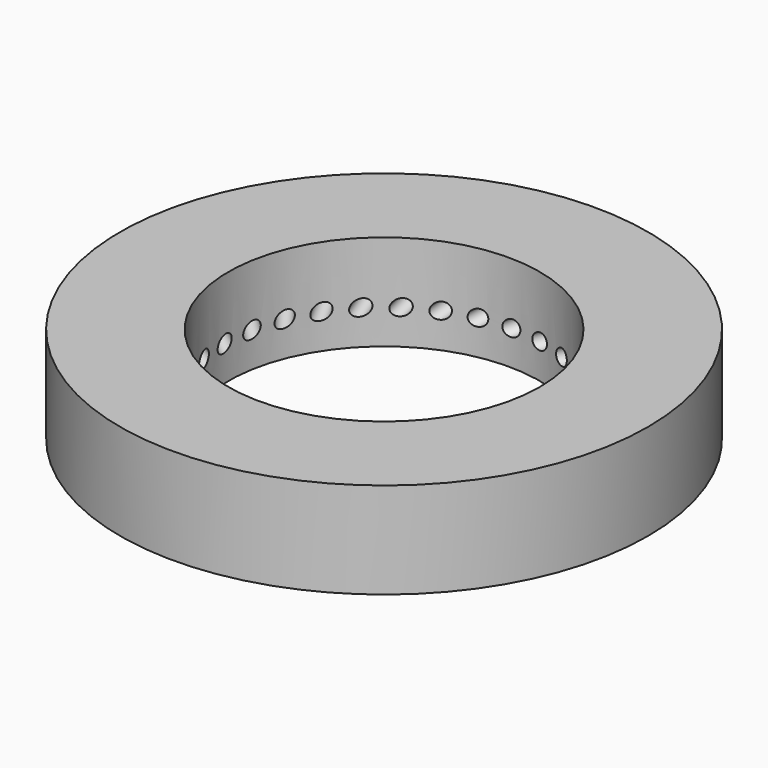
from build123d import *

# Parameters (mm, degrees)
F0_R      = 16.5
F1_DEPTH  = 7.9375
F2_R      = 10.033
F3_DEPTH  = 7.9375
F6_R      = 0.5
F7_DEPTH  = 25.4
F8_ANGLE  = 20
F10_ANGLE = 50
F11_ANGLE = 55
F12_COUNT = 31
F17_R     = 16.5
F17_R_2   = 10.033
F18_DEPTH = 1.7526
F19_R     = 15
F19_R_2   = 14
F20_DEPTH = 4.2545
F21_R     = 17
F21_R_2   = 16.5
F22_DEPTH = 6.1849


with BuildPart() as f1:
    # F0 (on Top) → F1 (new body)
    with BuildSketch(Plane.XY):
        Circle(F0_R)
    extrude(amount=F1_DEPTH)

    # F2 (on Top) → F3 (cut)
    with BuildSketch(Plane.XY):
        Circle(F2_R)
    extrude(amount=F3_DEPTH, mode=Mode.SUBTRACT)


with BuildPart() as f7:
    # F6 (on Right) → F7 (new body)
    with BuildSketch(Plane.YZ):
        with Locations((0, 54.0998391807)):
            Circle(F6_R)
    extrude(amount=F7_DEPTH)


with BuildPart() as f7_1:
    # F8: moved
    add(f7.part.rotate(Axis((0, 0, 71.6633871198), (0, 0, 1)), F8_ANGLE))


with BuildPart() as f7_2:
    # F9: moved
    add(f7_1.part.moved(Location((0, 0, -54.102))))


with BuildPart() as f7_3:
    # F10: moved
    add(f7_2.part.rotate(Axis((14.9283884093, 0, 0), (1, 0, 0)), F10_ANGLE))


with BuildPart() as f7_4:
    # F11: moved
    add(f7_3.part.rotate(Axis((0, -8.9068748057, 35.4871749878), (0, 0, 1)), F11_ANGLE))


with BuildPart() as f12_1:
    # F12: instance of F7
    add(f7_4.part.rotate(Axis((0, 0, 71.6633871198), (0, 0, 1)), 1 * 360 / F12_COUNT))


with BuildPart() as f12_2:
    # F12: instance of F7
    add(f7_4.part.rotate(Axis((0, 0, 71.6633871198), (0, 0, 1)), 2 * 360 / F12_COUNT))


with BuildPart() as f12_3:
    # F12: instance of F7
    add(f7_4.part.rotate(Axis((0, 0, 71.6633871198), (0, 0, 1)), 3 * 360 / F12_COUNT))


with BuildPart() as f12_4:
    # F12: instance of F7
    add(f7_4.part.rotate(Axis((0, 0, 71.6633871198), (0, 0, 1)), 4 * 360 / F12_COUNT))


with BuildPart() as f12_5:
    # F12: instance of F7
    add(f7_4.part.rotate(Axis((0, 0, 71.6633871198), (0, 0, 1)), 5 * 360 / F12_COUNT))


with BuildPart() as f12_6:
    # F12: instance of F7
    add(f7_4.part.rotate(Axis((0, 0, 71.6633871198), (0, 0, 1)), 6 * 360 / F12_COUNT))


with BuildPart() as f12_7:
    # F12: instance of F7
    add(f7_4.part.rotate(Axis((0, 0, 71.6633871198), (0, 0, 1)), 7 * 360 / F12_COUNT))


with BuildPart() as f12_8:
    # F12: instance of F7
    add(f7_4.part.rotate(Axis((0, 0, 71.6633871198), (0, 0, 1)), 8 * 360 / F12_COUNT))


with BuildPart() as f12_9:
    # F12: instance of F7
    add(f7_4.part.rotate(Axis((0, 0, 71.6633871198), (0, 0, 1)), 9 * 360 / F12_COUNT))


with BuildPart() as f12_10:
    # F12: instance of F7
    add(f7_4.part.rotate(Axis((0, 0, 71.6633871198), (0, 0, 1)), 10 * 360 / F12_COUNT))


with BuildPart() as f12_11:
    # F12: instance of F7
    add(f7_4.part.rotate(Axis((0, 0, 71.6633871198), (0, 0, 1)), 11 * 360 / F12_COUNT))


with BuildPart() as f12_12:
    # F12: instance of F7
    add(f7_4.part.rotate(Axis((0, 0, 71.6633871198), (0, 0, 1)), 12 * 360 / F12_COUNT))


with BuildPart() as f12_13:
    # F12: instance of F7
    add(f7_4.part.rotate(Axis((0, 0, 71.6633871198), (0, 0, 1)), 13 * 360 / F12_COUNT))


with BuildPart() as f12_14:
    # F12: instance of F7
    add(f7_4.part.rotate(Axis((0, 0, 71.6633871198), (0, 0, 1)), 14 * 360 / F12_COUNT))


with BuildPart() as f12_15:
    # F12: instance of F7
    add(f7_4.part.rotate(Axis((0, 0, 71.6633871198), (0, 0, 1)), 15 * 360 / F12_COUNT))


with BuildPart() as f12_16:
    # F12: instance of F7
    add(f7_4.part.rotate(Axis((0, 0, 71.6633871198), (0, 0, 1)), 16 * 360 / F12_COUNT))


with BuildPart() as f12_17:
    # F12: instance of F7
    add(f7_4.part.rotate(Axis((0, 0, 71.6633871198), (0, 0, 1)), 17 * 360 / F12_COUNT))


with BuildPart() as f12_18:
    # F12: instance of F7
    add(f7_4.part.rotate(Axis((0, 0, 71.6633871198), (0, 0, 1)), 18 * 360 / F12_COUNT))


with BuildPart() as f12_19:
    # F12: instance of F7
    add(f7_4.part.rotate(Axis((0, 0, 71.6633871198), (0, 0, 1)), 19 * 360 / F12_COUNT))


with BuildPart() as f12_20:
    # F12: instance of F7
    add(f7_4.part.rotate(Axis((0, 0, 71.6633871198), (0, 0, 1)), 20 * 360 / F12_COUNT))


with BuildPart() as f12_21:
    # F12: instance of F7
    add(f7_4.part.rotate(Axis((0, 0, 71.6633871198), (0, 0, 1)), 21 * 360 / F12_COUNT))


with BuildPart() as f12_22:
    # F12: instance of F7
    add(f7_4.part.rotate(Axis((0, 0, 71.6633871198), (0, 0, 1)), 22 * 360 / F12_COUNT))


with BuildPart() as f12_23:
    # F12: instance of F7
    add(f7_4.part.rotate(Axis((0, 0, 71.6633871198), (0, 0, 1)), 23 * 360 / F12_COUNT))


with BuildPart() as f12_24:
    # F12: instance of F7
    add(f7_4.part.rotate(Axis((0, 0, 71.6633871198), (0, 0, 1)), 24 * 360 / F12_COUNT))


with BuildPart() as f12_25:
    # F12: instance of F7
    add(f7_4.part.rotate(Axis((0, 0, 71.6633871198), (0, 0, 1)), 25 * 360 / F12_COUNT))


with BuildPart() as f12_26:
    # F12: instance of F7
    add(f7_4.part.rotate(Axis((0, 0, 71.6633871198), (0, 0, 1)), 26 * 360 / F12_COUNT))


with BuildPart() as f12_27:
    # F12: instance of F7
    add(f7_4.part.rotate(Axis((0, 0, 71.6633871198), (0, 0, 1)), 27 * 360 / F12_COUNT))


with BuildPart() as f12_28:
    # F12: instance of F7
    add(f7_4.part.rotate(Axis((0, 0, 71.6633871198), (0, 0, 1)), 28 * 360 / F12_COUNT))


with BuildPart() as f12_29:
    # F12: instance of F7
    add(f7_4.part.rotate(Axis((0, 0, 71.6633871198), (0, 0, 1)), 29 * 360 / F12_COUNT))


with BuildPart() as f12_30:
    # F12: instance of F7
    add(f7_4.part.rotate(Axis((0, 0, 71.6633871198), (0, 0, 1)), 30 * 360 / F12_COUNT))


with BuildPart() as f1_1:
    add(f1.part)

    # F13: cut F7, F12_14
    add(f7_4.part, mode=Mode.SUBTRACT)
    add(f12_14.part, mode=Mode.SUBTRACT)

    # F14: cut F12_30, F12_28, F12_26, F12_24, F12_22
    add(f12_30.part, mode=Mode.SUBTRACT)
    add(f12_28.part, mode=Mode.SUBTRACT)
    add(f12_26.part, mode=Mode.SUBTRACT)
    add(f12_24.part, mode=Mode.SUBTRACT)
    add(f12_22.part, mode=Mode.SUBTRACT)

    # F15: cut F12_20, F12_18, F12_16, F12_13, F12_11, F12_9, F12_7, F12_5, F12_3, F12_1
    add(f12_20.part, mode=Mode.SUBTRACT)
    add(f12_18.part, mode=Mode.SUBTRACT)
    add(f12_16.part, mode=Mode.SUBTRACT)
    add(f12_13.part, mode=Mode.SUBTRACT)
    add(f12_11.part, mode=Mode.SUBTRACT)
    add(f12_9.part, mode=Mode.SUBTRACT)
    add(f12_7.part, mode=Mode.SUBTRACT)
    add(f12_5.part, mode=Mode.SUBTRACT)
    add(f12_3.part, mode=Mode.SUBTRACT)
    add(f12_1.part, mode=Mode.SUBTRACT)

    # F16: cut F12_29, F12_27, F12_25, F12_23, F12_21, F12_19, F12_17, F12_15, F12_12, F12_10, F12_8, F12_6, F12_4, F12_2
    add(f12_29.part, mode=Mode.SUBTRACT)
    add(f12_27.part, mode=Mode.SUBTRACT)
    add(f12_25.part, mode=Mode.SUBTRACT)
    add(f12_23.part, mode=Mode.SUBTRACT)
    add(f12_21.part, mode=Mode.SUBTRACT)
    add(f12_19.part, mode=Mode.SUBTRACT)
    add(f12_17.part, mode=Mode.SUBTRACT)
    add(f12_15.part, mode=Mode.SUBTRACT)
    add(f12_12.part, mode=Mode.SUBTRACT)
    add(f12_10.part, mode=Mode.SUBTRACT)
    add(f12_8.part, mode=Mode.SUBTRACT)
    add(f12_6.part, mode=Mode.SUBTRACT)
    add(f12_4.part, mode=Mode.SUBTRACT)
    add(f12_2.part, mode=Mode.SUBTRACT)

    # F17 (on face) → F18 (cut)
    with BuildSketch(Plane(origin=(0, 0, 0), x_dir=(1, 0, 0), z_dir=(0, 0, -1))):
        Circle(F17_R)
        Circle(F17_R_2, mode=Mode.SUBTRACT)
    extrude(amount=-F18_DEPTH, mode=Mode.SUBTRACT)

    # F19 (on face) → F20 (cut)
    with BuildSketch(Plane(origin=(0, 0, 1.7526), x_dir=(1, 0, 0), z_dir=(0, 0, -1))):
        Circle(F19_R)
        Circle(F19_R_2, mode=Mode.SUBTRACT)
    extrude(amount=-F20_DEPTH, mode=Mode.SUBTRACT)

    # F21 (on face) → F22 (join, through all)
    with BuildSketch(Plane.XY.offset(7.9375)):
        Circle(F21_R)
        Circle(F21_R_2, mode=Mode.SUBTRACT)
    extrude(amount=-F22_DEPTH)


solid = f1_1.part
